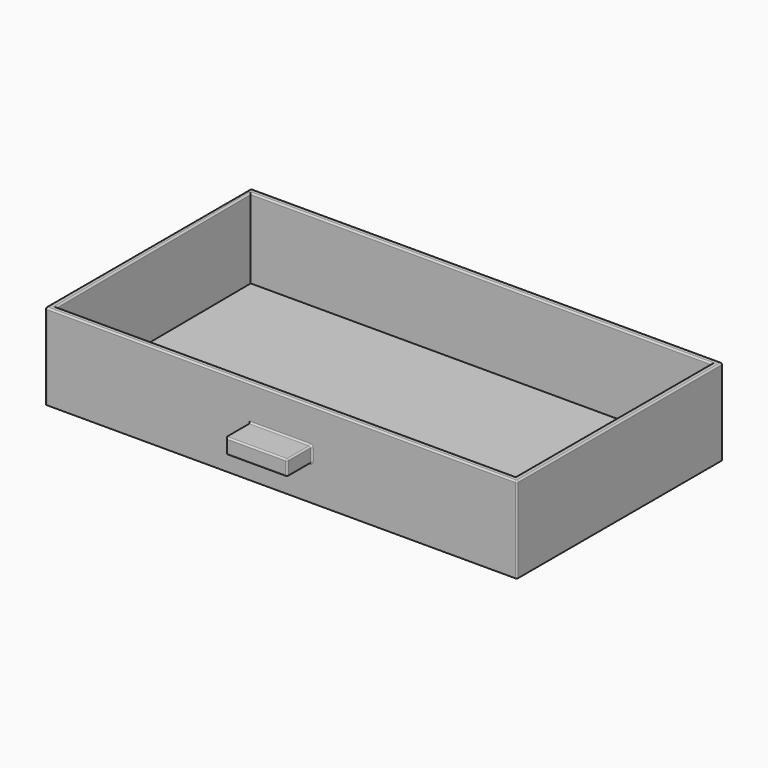
from build123d import *

# Parameters (mm, degrees)
F0_W      = 170
F0_H      = 100
F1_DEPTH  = 2
F2_W      = 170
F2_H      = 100
F3_DEPTH  = 26
F4_W      = 2
F4_H      = 96
F5_DEPTH  = 26
F6_W      = 14
F6_H      = 96
F7_DEPTH  = 30
F8_W      = 10
F8_H      = 2.5
F9_DEPTH  = 10
F11_DEPTH = 26
F13_DEPTH = 30
F14_R     = 0.5


with BuildPart() as f1:
    # F0 (on Top) → F1 (new body)
    with BuildSketch(Plane.XY):
        with Locations((0.7212153077, -50)):
            Rectangle(F0_W, F0_H)
    extrude(amount=F1_DEPTH)

    # F2 (on face) → F3 (join)
    with BuildSketch(Plane.XY.offset(2)):
        with Locations((0.7212153077, -50)):
            Rectangle(F2_W, F2_H)
        Polygon((83.7212153077, -2), (83.7212153077, -98), (-82.2787846923, -98), (-82.8941488059, -2), align=None, mode=Mode.SUBTRACT)
    extrude(amount=F3_DEPTH)

    # F4 (on face) → F5 (join)
    with BuildSketch(Plane.XY.offset(2)):
        with Locations((68.7212153077, -50)):
            Rectangle(F4_W, F4_H)
    extrude(amount=F5_DEPTH)

    # F6 (on face) → F7 (cut)
    with BuildSketch(Plane.XY.offset(28)):
        with Locations((76.7212153077, -50)):
            Rectangle(F6_W, F6_H)
        Polygon((83.7212153077, -98), (69.7212153077, -98), (69.7212153077, -100), (85.7212153077, -100), (85.7212153077, 0), (69.7212153077, 0), (69.7212153077, -2), (83.7212153077, -2), align=None)
    extrude(amount=-F7_DEPTH, mode=Mode.SUBTRACT)

    # F8 (on face) → F9 (join)
    with BuildSketch(Plane.XZ.offset(100)):
        with Locations((-2.2787846923, 15.25)):
            Rectangle(F8_W, F8_H)
        with Locations((-12.2787846923, 15.25)):
            Rectangle(F8_W, F8_H)
        with Locations((-12.2787846923, 12.75)):
            Rectangle(F8_W, F8_H)
        with Locations((-2.2787846923, 12.75)):
            Rectangle(F8_W, F8_H)
    extrude(amount=F9_DEPTH)

    # F10 (on face) → F11 (join)
    with BuildSketch(Plane.XY.offset(2)):
        Polygon((67.7212153077, -15.9997123883), (-82.8044100496, -15.9997123883), (-82.7915902273, -17.9996713009), (67.7212153077, -17.9996713009), align=None)
    extrude(amount=F11_DEPTH)

    # F12 (on face) → F13 (cut)
    with BuildSketch(Plane.XY.offset(28)):
        Polygon((-84.2787846923, -15.9997123883), (-82.8044100496, -15.9997123883), (-82.8941488059, -2), (67.7212153077, -2), (67.7212153077, -15.9997123883), (69.7212153077, -15.9997123883), (69.7212153077, 0), (-84.2787846923, 0), align=None)
        Polygon((-82.8941488059, -2), (-82.8044100496, -15.9997123883), (67.7212153077, -15.9997123883), (67.7212153077, -2), align=None)
    extrude(amount=-F13_DEPTH, mode=Mode.SUBTRACT)

    # F14
    f14_edges = [f1.edges().sort_by_distance(p)[0] for p in [
        (-82.535187, -57.999836, 28),
        (-7.535187, -17.999671, 28),
        (-7.278785, -15.999712, 28),
        (-84.278785, -57.999856, 28),
        (-7.278785, -98, 28),
        (-7.278785, -100, 28),
        (67.721215, -57.999836, 28),
        (69.721215, -57.999856, 28),
        (69.721215, -15.999712, 14),
        (69.721215, -100, 14),
        (2.721215, -105, 16.5),
        (2.721215, -105, 11.5),
        (2.721215, -100, 14),
        (-7.278785, -100, 16.5),
        (-7.278785, -110, 16.5),
        (-7.278785, -110, 11.5),
        (-17.278785, -110, 14),
        (-84.278785, -100, 14),
        (-84.278785, -15.999712, 14),
        (-17.278785, -100, 14),
        (-17.278785, -105, 11.5),
        (2.721215, -110, 14),
        (-7.278785, -100, 11.5),
    ]]
    fillet(f14_edges, radius=F14_R)


solid = f1.part
